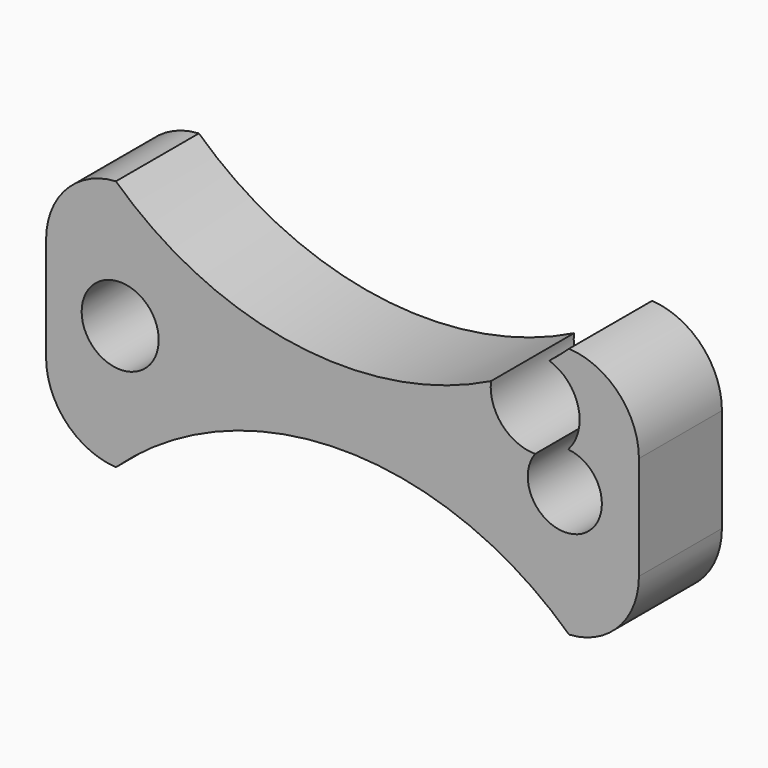
from build123d import *

# Parameters (mm, degrees)
F1_DEPTH = 7
F3_D     = 5.2
F5_D     = 5
F7_D     = 45
F9_D     = 45
F11_D    = 6


with BuildPart() as f1:
    # F0 (on Front) → F1 (new body)
    with BuildSketch(Plane.XZ):
        with BuildLine():
            Line((-15, -8.5), (15, -8.5))
            ThreePointArc((15, -8.5), (18.5355339059, -7.0355339059), (20, -3.5))
            Line((20, -3.5), (20, 3.5))
            ThreePointArc((20, 3.5), (18.5355339059, 7.0355339059), (15, 8.5))
            Line((15, 8.5), (-15, 8.5))
            ThreePointArc((-15, 8.5), (-18.5355339059, 7.0355339059), (-20, 3.5))
            Line((-20, 3.5), (-20, -3.5))
            ThreePointArc((-20, -3.5), (-18.5355339059, -7.0355339059), (-15, -8.5))
        make_face()
    extrude(amount=F1_DEPTH)

    # F3 (through all)
    with Locations(Plane(origin=(0, 0, 0), x_dir=(1, 0, 0), z_dir=(0, 1, 0))):
        with Locations((-15, 0)):
            Hole(F3_D / 2)

    # F5 (through all)
    with Locations(Plane(origin=(0, 0, 0), x_dir=(1, 0, 0), z_dir=(0, 1, 0))):
        with Locations((15, 0)):
            Hole(F5_D / 2)

    # F7 (through all)
    with Locations(Plane(origin=(0, 0, 0), x_dir=(1, 0, 0), z_dir=(0, 1, 0))):
        with Locations((0, 25)):
            Hole(F7_D / 2)

    # F9 (through all)
    with Locations(Plane(origin=(0, 0, 0), x_dir=(1, 0, 0), z_dir=(0, 1, 0))):
        with Locations((0, -25)):
            Hole(F9_D / 2)

    # F11 (through all)
    with Locations(Plane(origin=(0, 0, 0), x_dir=(1, 0, 0), z_dir=(0, 1, 0))):
        with Locations((13, -4.5)):
            Hole(F11_D / 2)


solid = f1.part
